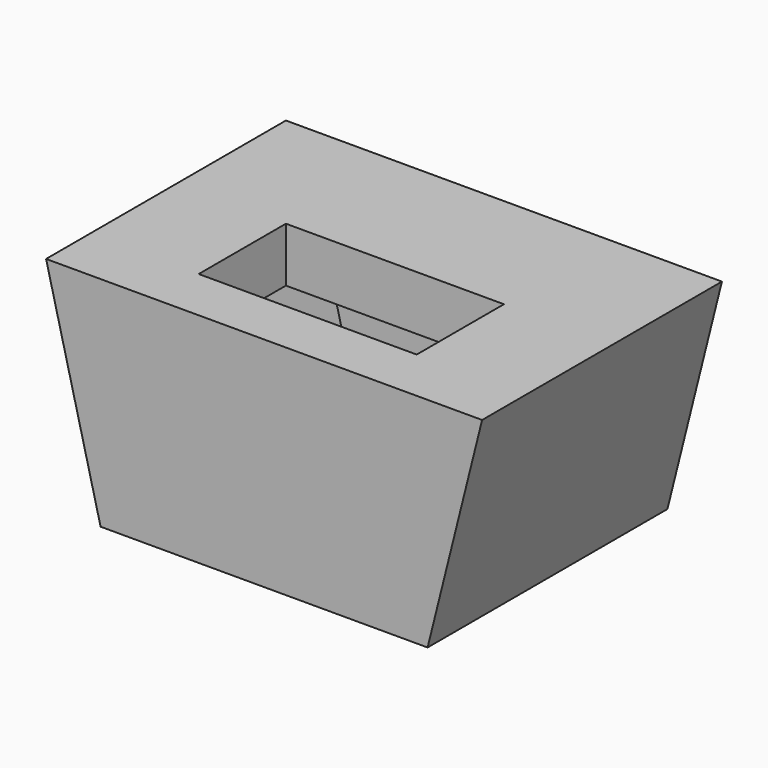
from build123d import *

# Parameters (mm, degrees)
F1_DEPTH  = 200
F2_R      = 50
F3_DEPTH  = 50
F5_DEPTH  = 10
F7_DEPTH  = 50
F9_DEPTH  = 25
F10_W     = 200
F10_H     = 100
F11_DEPTH = 50


with BuildPart() as f1:
    # F0 (on Front) → F1 (new body)
    with BuildSketch(Plane.XZ):
        Polygon((-150, 50), (150, 50), (137.5, 0), (175, 0), (200, 100), (-200, 100), (-175, 0), (-137.5, 0), align=None)
        Polygon((175, 0), (137.5, 0), (125, -50), (-125, -50), (-137.5, 0), (-175, 0), (-150, -100), (150, -100), align=None)
    extrude(amount=-F1_DEPTH)

    # F2 (on face) → F3 (cut)
    with BuildSketch(Plane(origin=(0, 0, -100), x_dir=(1, 0, 0), z_dir=(0, 0, -1))):
        with Locations((0, -100)):
            Circle(F2_R)
    extrude(amount=-F3_DEPTH, mode=Mode.SUBTRACT)

    # F4 (on face) → F5 (join)
    with BuildSketch(Plane(origin=(0, 0, -100), x_dir=(1, 0, 0), z_dir=(0, 0, -1))):
        with BuildLine():
            ThreePointArc((50, -100), (35.3553390593, -64.6446609407), (0, -50))
            ThreePointArc((0, -50), (-35.3553390593, -135.3553390593), (50, -100))
        make_face()
        with BuildLine():
            ThreePointArc((45, -100), (-31.8198051534, -131.8198051534), (0, -55))
            ThreePointArc((0, -55), (31.8198051534, -68.1801948466), (45, -100))
        make_face(mode=Mode.SUBTRACT)
    extrude(amount=-F5_DEPTH)

    # F6 (on face) → F7 (join)
    with BuildSketch(Plane.XZ):
        Polygon((150, -100), (200, 100), (-200, 100), (-150, -100), align=None)
        Polygon((-125, -50), (-150, 50), (150, 50), (125, -50), align=None, mode=Mode.SUBTRACT)
        Polygon((150, 50), (-150, 50), (-125, -50), (125, -50), align=None)
    extrude(amount=F7_DEPTH)

    # F8 (on face) → F9 (join)
    with BuildSketch(Plane(origin=(0, 200, 0), x_dir=(-1, 0, 0), z_dir=(0, 1, 0))):
        Polygon((150, -100), (200, 100), (-200, 100), (-150, -100), align=None)
        Polygon((-125, -50), (-150, 50), (150, 50), (125, -50), align=None, mode=Mode.SUBTRACT)
        Polygon((150, 50), (-150, 50), (-125, -50), (125, -50), align=None)
    extrude(amount=F9_DEPTH)

    # F10 (on face) → F11 (cut)
    with BuildSketch(Plane.XY.offset(100)):
        with Locations((0, 50)):
            Rectangle(F10_W, F10_H)
    extrude(amount=-F11_DEPTH, mode=Mode.SUBTRACT)


solid = f1.part
